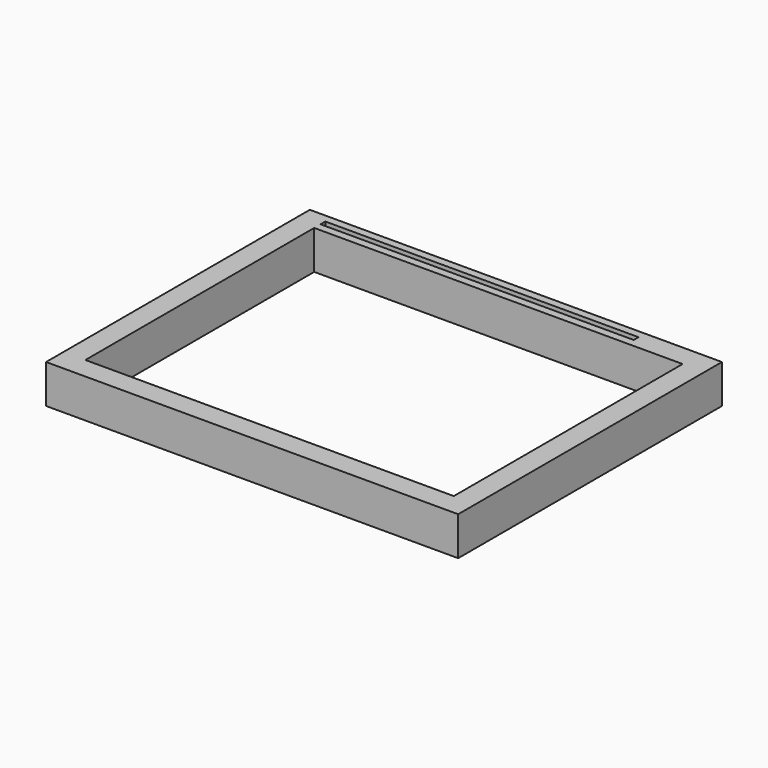
from build123d import *

# Parameters (mm, degrees)
SKETCH007_W     = 500
SKETCH007_H     = 400
SKETCH007_W_2   = 447
SKETCH007_H_2   = 347
PAD002_DEPTH    = 47
PAD003_DEPTH    = 380
PAD003_FACE11_W = 7.3
PAD003_FACE11_H = 380
POCKET002_DEPTH = 5


with BuildPart() as part:
    # Sketch007 → Pad002 (new body)
    with BuildSketch(Plane.XY):
        Rectangle(SKETCH007_W, SKETCH007_H)
        Rectangle(SKETCH007_W_2, SKETCH007_H_2, mode=Mode.SUBTRACT)
    extrude(amount=PAD002_DEPTH)

    # Sketch008 (on Face5 of Pad002) → Pad003 (join)
    with BuildSketch(Plane.YZ.offset(-223.5)):
        Polygon((183.1, 42), (183.1, 47), (190.4, 47), (190.4, 42), (189.4, 42), (189.4, 46), (184.1, 46), (184.1, 42), align=None)
    extrude(amount=PAD003_DEPTH)

    # Pad003 Face11 → Pocket002 (cut)
    with BuildSketch(Plane(origin=(-33.5, 186.75, 47), x_dir=(0, 1, 0), z_dir=(0, 0, 1))):
        Rectangle(PAD003_FACE11_W, PAD003_FACE11_H)
    extrude(amount=-POCKET002_DEPTH, mode=Mode.SUBTRACT)


solid = part.part
